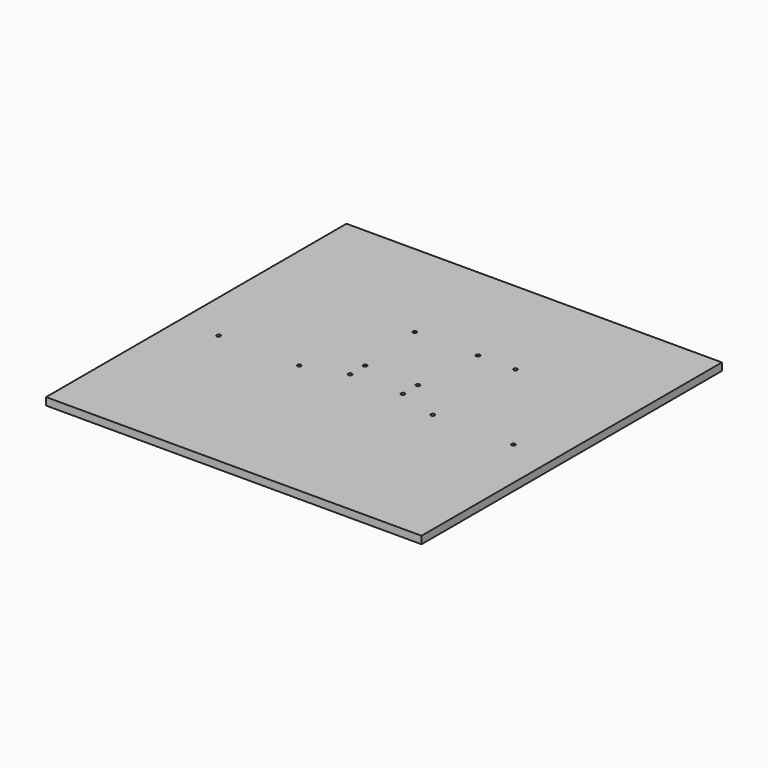
from build123d import *

# Parameters (mm, degrees)
F0_W     = 500
F0_H     = 500
F1_DEPTH = 10
F3_D     = 5
F5_D     = 5


with BuildPart() as f1:
    # F0 (on Top) → F1 (new body)
    with BuildSketch(Plane.XY):
        with Locations((-7.665122, 156.163306)):
            Rectangle(F0_W, F0_H)
    extrude(amount=F1_DEPTH)

    # F3 (through all)
    with Locations(Plane(origin=(0, 0, 0), x_dir=(1, 0, 0), z_dir=(0, 0, -1))):
        with Locations((-42.865122, -143.663306), (27.534878, -143.663306), (27.534878, -168.663306), (-42.865122, -168.663306), (-49.835122, -259.91124), (34.504878, -259.873878), (84.504873, -259.851729)):
            Hole(F3_D / 2)

    # F5 (through all)
    with Locations(Plane.XY.offset(10)):
        with Locations((-203.965122, 126.163306), (-96.565122, 126.163306), (81.234878, 126.163306), (188.634878, 126.163306)):
            Hole(F5_D / 2)


solid = f1.part
